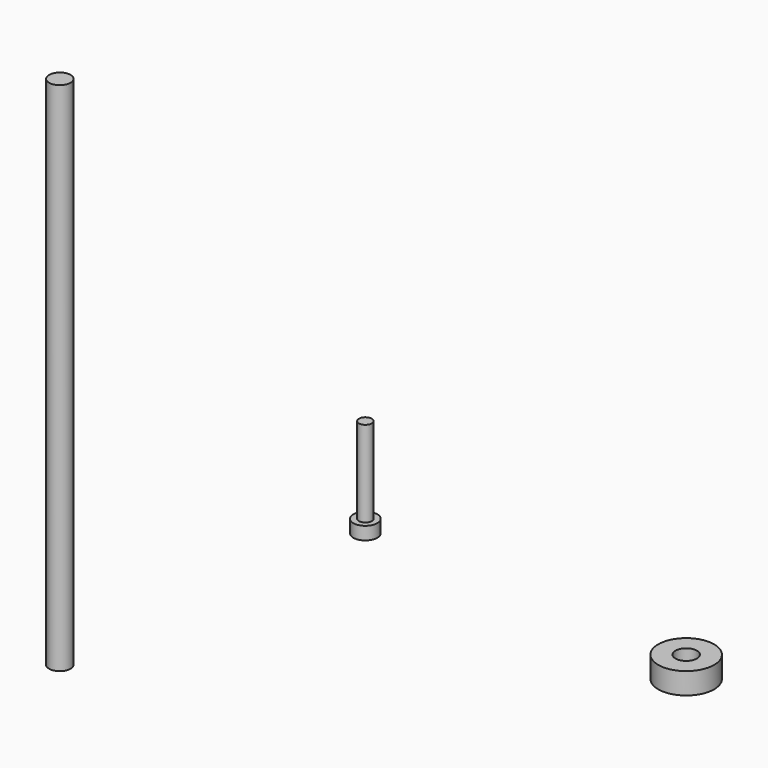
from build123d import *

# Parameters (mm, degrees)
F0_R     = 2.8
F1_DEPTH = 3
F2_R     = 1.5
F3_DEPTH = 20
F4_R     = 6.5
F4_R_2   = 2.5
F5_DEPTH = 5
F6_R     = 2.5
F7_DEPTH = 120


with BuildPart() as f1:
    # F0 (on Top) → F1 (new body)
    with BuildSketch(Plane.XY):
        with Locations((-48.837181, 40.40977)):
            Circle(F0_R)
    extrude(amount=F1_DEPTH)

    # F2 (on face) → F3 (join)
    with BuildSketch(Plane.XY.offset(3)):
        with Locations((-48.837181, 40.40977)):
            Circle(F2_R)
    extrude(amount=F3_DEPTH)


with BuildPart() as f5:
    # F4 (on Top) → F5 (new body)
    with BuildSketch(Plane.XY):
        with Locations((32.460369, 32.076221)):
            Circle(F4_R)
        with Locations((32.460369, 32.076221)):
            Circle(F4_R_2, mode=Mode.SUBTRACT)
    extrude(amount=F5_DEPTH)


with BuildPart() as f7:
    # F6 (on Top) → F7 (new body)
    with BuildSketch(Plane.XY):
        with Locations((-59.862804, -34.637194)):
            Circle(F6_R)
    extrude(amount=F7_DEPTH)


solid = Compound([f1.part, f5.part, f7.part])
